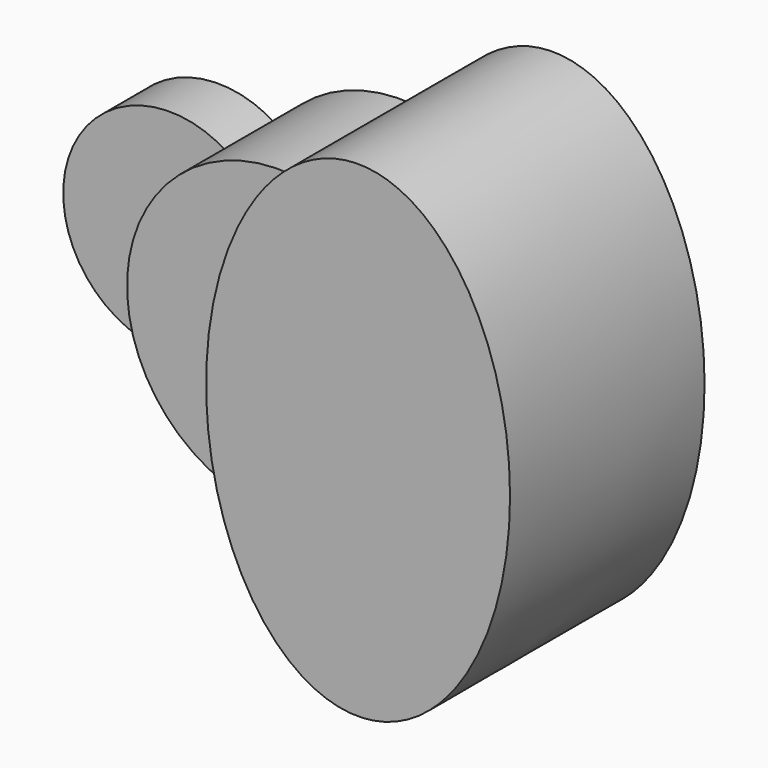
from build123d import *

# Parameters (mm, degrees)
F1_DEPTH = 25.4
F2_DEPTH = 63.5
F3_DEPTH = 101.6


with BuildPart() as f1:
    # F0 (on Front) → F1 (new body)
    with BuildSketch(Plane.XZ):
        with BuildLine():
            ThreePointArc((-51.59375, -37.0180356169), (-60.4501990278, -19.4428248333), (-63.5, 0))
            ThreePointArc((-63.5, 0), (-60.4501990278, 19.4428248333), (-51.59375, 37.0180356169))
            ThreePointArc((-51.59375, 37.0180356169), (-120.65, 0), (-51.59375, -37.0180356169))
        make_face()
    extrude(amount=F1_DEPTH)


with BuildPart() as f2:
    # F0 (on Front) → F2 (new body)
    with BuildSketch(Plane.XZ):
        with BuildLine():
            add(Edge.make_bspline(
                [(0, 0), (0, -34.6669399309), (13.2439655959, -62.1035214404)],
                knots=[1.5707963268, 1.5707963268, 1.5707963268, 2.2284418454, 2.2284418454, 2.2284418454], degree=2, weights=[1, 0.9464231645, 1]))
            Line((0, 0), (-31.75, 0))
            ThreePointArc((-31.75, 0), (-37.0237934934, -21.0006510316), (-51.59375, -37.0180356169))
            ThreePointArc((-51.59375, -37.0180356169), (-22.9128106244, -59.2220660674), (13.2439655959, -62.1035214404))
        make_face()
        with BuildLine():
            Line((-31.75, 0), (0, 0))
            add(Edge.make_bspline(
                [(13.2439655959, 62.1035214404), (0, 34.6669399309), (0, 0)],
                knots=[0.9131508081, 0.9131508081, 0.9131508081, 1.5707963268, 1.5707963268, 1.5707963268], degree=2, weights=[1, 0.9464231645, 1]))
            ThreePointArc((13.2439655959, 62.1035214404), (-22.9128106244, 59.2220660674), (-51.59375, 37.0180356169))
            ThreePointArc((-51.59375, 37.0180356169), (-37.0237934934, 21.0006510316), (-31.75, 0))
        make_face()
        with BuildLine():
            Line((-63.5, 0), (-31.75, 0))
            ThreePointArc((-31.75, 0), (-37.0237934934, 21.0006510316), (-51.59375, 37.0180356169))
            ThreePointArc((-51.59375, 37.0180356169), (-60.4501990278, 19.4428248333), (-63.5, 0))
        make_face()
        with BuildLine():
            ThreePointArc((-51.59375, -37.0180356169), (-37.0237934934, -21.0006510316), (-31.75, 0))
            Line((-31.75, 0), (-63.5, 0))
            ThreePointArc((-63.5, 0), (-60.4501990278, -19.4428248333), (-51.59375, -37.0180356169))
        make_face()
    extrude(amount=F2_DEPTH)


with BuildPart() as f3:
    # F0 (on Front) → F3 (new body)
    with BuildSketch(Plane.XZ):
        with BuildLine():
            add(Edge.make_bspline(
                [(63.5, 101.6), (32.3093875408, 101.6), (13.2439655959, 62.1035214404)],
                knots=[0, 0, 0, 0.9131508081, 0.9131508081, 0.9131508081], degree=2, weights=[1, 0.8975675831, 1]))
            ThreePointArc((13.2439655959, 62.1035214404), (49.3621404284, 39.9453262889), (63.5, 0))
            Line((63.5, 0), (63.5, 101.6))
        make_face()
        with BuildLine():
            ThreePointArc((63.5, 0), (49.3621404284, -39.9453262889), (13.2439655959, -62.1035214404))
            add(Edge.make_bspline(
                [(13.2439655959, -62.1035214404), (75.5537087854, -191.1861844445), (120.4955415237, -44.7930922222), (165.437374262, 101.6), (63.5, 101.6)],
                knots=[2.2284418454, 2.2284418454, 2.2284418454, 4.2558135763, 4.2558135763, 6.2831853072, 6.2831853072, 6.2831853072], degree=2, weights=[1, 0.5287358074, 1, 0.5287358074, 1]))
            Line((63.5, 101.6), (63.5, 0))
        make_face()
        with BuildLine():
            add(Edge.make_bspline(
                [(13.2439655959, 62.1035214404), (0, 34.6669399309), (0, 0)],
                knots=[0.9131508081, 0.9131508081, 0.9131508081, 1.5707963268, 1.5707963268, 1.5707963268], degree=2, weights=[1, 0.9464231645, 1]))
            add(Edge.make_bspline(
                [(0, 0), (0, -34.6669399309), (13.2439655959, -62.1035214404)],
                knots=[1.5707963268, 1.5707963268, 1.5707963268, 2.2284418454, 2.2284418454, 2.2284418454], degree=2, weights=[1, 0.9464231645, 1]))
            ThreePointArc((13.2439655959, -62.1035214404), (49.3621404284, -39.9453262889), (63.5, 0))
            ThreePointArc((63.5, 0), (49.3621404284, 39.9453262889), (13.2439655959, 62.1035214404))
        make_face()
    extrude(amount=F3_DEPTH)


solid = Compound([f1.part, f2.part, f3.part])
